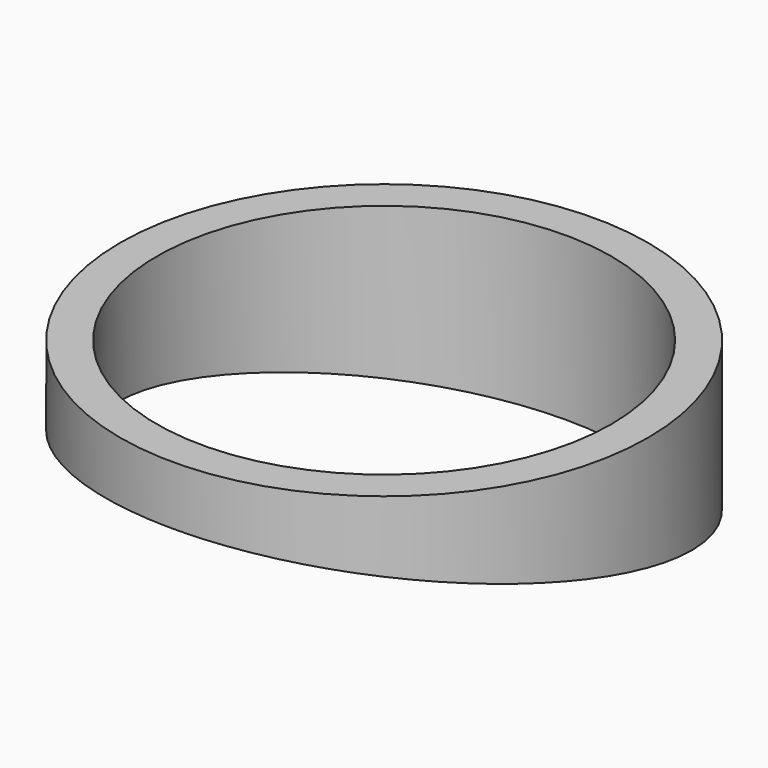
from build123d import *

# Parameters (mm, degrees)
F0_R          = 914.4
F0_R_2        = 787.4
F1_DEPTH      = 584.2
F3_DEPTH      = 914.401
F3_DEPTH_BACK = 914.401


with BuildPart() as f1:
    # F0 (on Top) → F1 (new body)
    with BuildSketch(Plane.XY):
        Circle(F0_R)
        Circle(F0_R_2, mode=Mode.SUBTRACT)
    extrude(amount=F1_DEPTH)

    # F2 (on Right) → F3 (cut, two sides)
    with BuildSketch(Plane.YZ) as f3_sk:
        Polygon((-914.4, 0), (889, 0), (-914.4, 381), align=None)
    extrude(amount=F3_DEPTH, mode=Mode.SUBTRACT)
    extrude(f3_sk.sketch, amount=-F3_DEPTH_BACK, mode=Mode.SUBTRACT)


solid = f1.part
